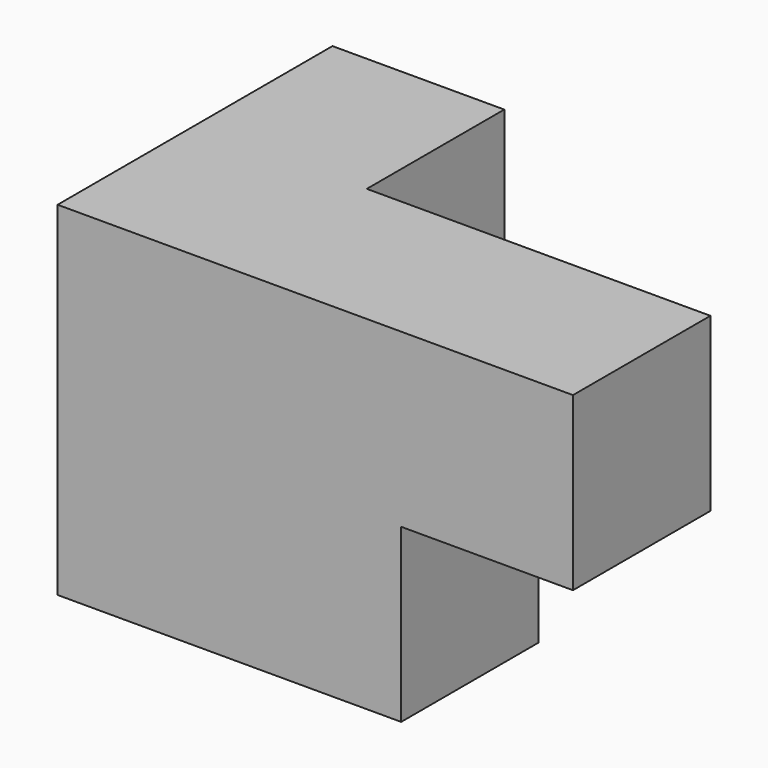
from build123d import *

# Parameters (mm, degrees)
F0_W     = 38.1
F0_H     = 19.05
F1_DEPTH = 19.05
F2_W     = 38.1
F2_H     = 19.05
F3_DEPTH = 19.05
F4_W     = 19.05
F4_H     = 19.05
F5_DEPTH = 19.05
F6_W     = 19.05
F6_H     = 19.05
F7_DEPTH = 19.05


with BuildPart() as f1:
    # F0 (on Front) → F1 (new body)
    with BuildSketch(Plane.XZ):
        with Locations((-67.838149, 35.472375)):
            Rectangle(F0_W, F0_H)
    extrude(amount=F1_DEPTH)

    # F2 (on face) → F3 (join)
    with BuildSketch(Plane.XY.offset(44.997375)):
        with Locations((-67.838149, -9.525)):
            Rectangle(F2_W, F2_H)
    extrude(amount=F3_DEPTH)

    # F4 (on face) → F5 (join)
    with BuildSketch(Plane.YZ.offset(-48.788149)):
        with Locations((-9.525, 54.522375)):
            Rectangle(F4_W, F4_H)
    extrude(amount=F5_DEPTH)

    # F6 (on face) → F7 (join)
    with BuildSketch(Plane(origin=(0, 0, 0), x_dir=(-1, 0, 0), z_dir=(0, 1, 0))):
        with Locations((77.363149, 54.522375)):
            Rectangle(F6_W, F6_H)
    extrude(amount=F7_DEPTH)


solid = f1.part
